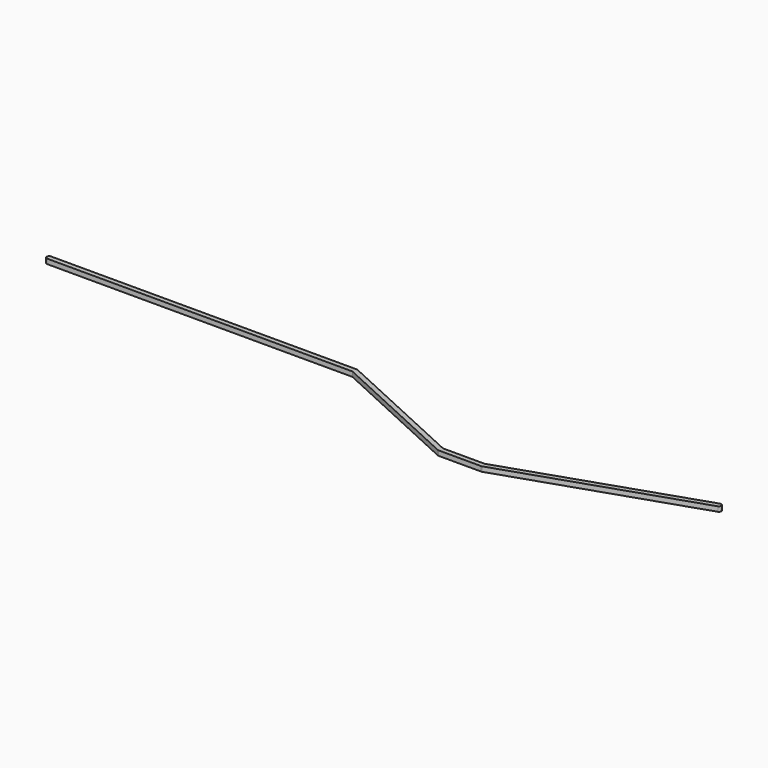
from build123d import *

# Parameters (mm, degrees)
F1_DEPTH = 1


with BuildPart() as f1:
    # F0 (on Top) → F1 (new body)
    with BuildSketch(Plane.XY):
        with BuildLine():
            ThreePointArc((-0.2086911414, -0.4543654999), (-0.4209189772, -0.2698651786), (-0.5, 0))
            ThreePointArc((-0.5, 0), (-0.3535533906, 0.3535533906), (0, 0.5))
            Line((0, 0.5), (-63.4844228625, 0.5))
            ThreePointArc((-63.4844228625, 0.5), (-63.9844228625, 0), (-63.4844228625, -0.5))
            Line((-63.4844228625, -0.5), (-0.1093350197, -0.5))
            Line((-0.1093350197, -0.5), (-0.2086911414, -0.4543654999))
        make_face()
        with BuildLine():
            ThreePointArc((0, 0.5), (-0.3535533906, 0.3535533906), (-0.5, 0))
            Line((-0.5, 0), (0, 0))
            Line((0, 0), (0.4543654999, -0.2086911414))
            ThreePointArc((0.4543654999, -0.2086911414), (0.4688518474, 0.1737180048), (0.2086911414, 0.4543654999))
            ThreePointArc((0.2086911414, 0.4543654999), (0.1068111653, 0.4884581609), (0, 0.5))
        make_face()
        with BuildLine():
            Line((0, 0), (-0.5, 0))
            ThreePointArc((-0.5, 0), (-0.4209189772, -0.2698651786), (-0.2086911414, -0.4543654999))
            Line((-0.2086911414, -0.4543654999), (-0.1093350197, -0.5))
            Line((-0.1093350197, -0.5), (0, -0.5))
            ThreePointArc((0, -0.5), (0.2698651786, -0.4209189772), (0.4543654999, -0.2086911414))
            Line((0.4543654999, -0.2086911414), (0, 0))
        make_face()
        with BuildLine():
            Line((27.6882115373, -12.7172606002), (0.4543654999, -0.2086911414))
            ThreePointArc((0.4543654999, -0.2086911414), (0.2698651786, -0.4209189772), (0, -0.5))
            Line((0, -0.5), (-0.1093350197, -0.5))
            Line((-0.1093350197, -0.5), (27.9338858958, -13.3803172415))
            ThreePointArc((27.9338858958, -13.3803172415), (27.6737251898, -13.0996697465), (27.6882115373, -12.7172606002))
        make_face()
        with BuildLine():
            ThreePointArc((0.2086911414, 0.4543654999), (0.4688518474, 0.1737180048), (0.4543654999, -0.2086911414))
            Line((0.4543654999, -0.2086911414), (27.6882115373, -12.7172606002))
            ThreePointArc((27.6882115373, -12.7172606002), (27.8727118586, -12.5050327644), (28.1425770372, -12.4259517416))
            Line((28.1425770372, -12.4259517416), (28.2519120569, -12.4259517416))
            Line((28.2519120569, -12.4259517416), (0.2086911414, 0.4543654999))
        make_face()
        with BuildLine():
            Line((28.1425770372, -12.9259517416), (27.6882115373, -12.7172606002))
            ThreePointArc((27.6882115373, -12.7172606002), (27.6737251898, -13.0996697465), (27.9338858958, -13.3803172415))
            ThreePointArc((27.9338858958, -13.3803172415), (28.0357658719, -13.4144099026), (28.1425770372, -13.4259517416))
            ThreePointArc((28.1425770372, -13.4259517416), (28.4961304278, -13.2795051322), (28.6425770372, -12.9259517416))
            Line((28.6425770372, -12.9259517416), (28.1425770372, -12.9259517416))
        make_face()
        with BuildLine():
            ThreePointArc((28.1425770372, -12.4259517416), (27.8727118586, -12.5050327644), (27.6882115373, -12.7172606002))
            Line((27.6882115373, -12.7172606002), (28.1425770372, -12.9259517416))
            Line((28.1425770372, -12.9259517416), (28.6425770372, -12.9259517416))
            ThreePointArc((28.6425770372, -12.9259517416), (28.5634960144, -12.656086563), (28.3512681786, -12.4715862417))
            Line((28.3512681786, -12.4715862417), (28.2519120569, -12.4259517416))
            Line((28.2519120569, -12.4259517416), (28.1425770372, -12.4259517416))
        make_face()
        with BuildLine():
            Line((36.8965712748, -12.4259517416), (28.2519120569, -12.4259517416))
            Line((28.2519120569, -12.4259517416), (28.3512681786, -12.4715862417))
            ThreePointArc((28.3512681786, -12.4715862417), (28.5634960144, -12.656086563), (28.6425770372, -12.9259517416))
            Line((28.6425770372, -12.9259517416), (36.4780361652, -12.9259517416))
            ThreePointArc((36.4780361652, -12.9259517416), (36.5722294146, -12.6338543586), (36.8193196899, -12.4518113822))
            Line((36.8193196899, -12.4518113822), (36.8965712748, -12.4259517416))
        make_face()
        with BuildLine():
            ThreePointArc((28.6425770372, -12.9259517416), (28.4961304278, -13.2795051322), (28.1425770372, -13.4259517416))
            Line((28.1425770372, -13.4259517416), (36.9780361652, -13.4259517416))
            ThreePointArc((36.9780361652, -13.4259517416), (36.6244827746, -13.2795051322), (36.4780361652, -12.9259517416))
            Line((36.4780361652, -12.9259517416), (28.6425770372, -12.9259517416))
        make_face()
        with BuildLine():
            ThreePointArc((36.4780361652, -12.9259517416), (36.6244827746, -13.2795051322), (36.9780361652, -13.4259517416))
            ThreePointArc((36.9780361652, -13.4259517416), (37.0584408301, -13.4194444871), (37.1367526405, -13.4000921011))
            ThreePointArc((37.1367526405, -13.4000921011), (37.4255335246, -13.1489901091), (37.4521765247, -12.7672352663))
            Line((37.4521765247, -12.7672352663), (36.9780361652, -12.9259517416))
            Line((36.9780361652, -12.9259517416), (36.4780361652, -12.9259517416))
        make_face()
        with BuildLine():
            Line((36.9780361652, -12.4259517416), (36.8965712748, -12.4259517416))
            Line((36.8965712748, -12.4259517416), (36.8193196899, -12.4518113822))
            ThreePointArc((36.8193196899, -12.4518113822), (36.5722294146, -12.6338543586), (36.4780361652, -12.9259517416))
            Line((36.4780361652, -12.9259517416), (36.9780361652, -12.9259517416))
            Line((36.9780361652, -12.9259517416), (37.4521765247, -12.7672352663))
            ThreePointArc((37.4521765247, -12.7672352663), (37.2701335483, -12.520144991), (36.9780361652, -12.4259517416))
        make_face()
        with BuildLine():
            Line((75.4335555083, 0.4741403595), (36.8965712748, -12.4259517416))
            Line((36.8965712748, -12.4259517416), (36.9780361652, -12.4259517416))
            ThreePointArc((36.9780361652, -12.4259517416), (37.2701335483, -12.520144991), (37.4521765247, -12.7672352663))
            ThreePointArc((37.4521765247, -12.7672352663), (37.4255335246, -13.1489901091), (37.1367526405, -13.4000921011))
            Line((37.1367526405, -13.4000921011), (75.7509884589, -0.4741403595))
            ThreePointArc((75.7509884589, -0.4741403595), (76.0664123431, 0.1587164753), (75.4335555083, 0.4741403595))
        make_face()
    extrude(amount=F1_DEPTH)


solid = f1.part
